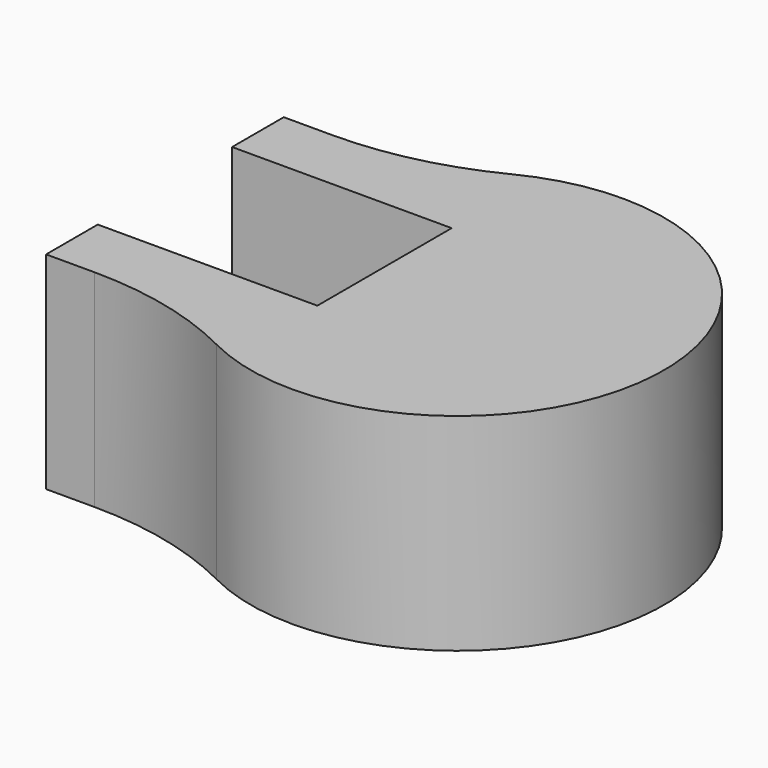
from build123d import *

# Parameters (mm, degrees)
F1_DEPTH = 8
F2_R     = 13


with BuildPart() as f1:
    # F0 (on Top) → F1 (new body)
    with BuildSketch(Plane.XY):
        with BuildLine():
            Line((-11, 0), (-5.240036, 0))
            ThreePointArc((-5.240036, 0), (8.322113, 5.75), (-5.240036, 11.5))
            Line((-5.240036, 11.5), (-11, 11.5))
            Line((-11, 11.5), (-11, 9))
            Line((-11, 9), (-2.5, 9))
            Line((-2.5, 9), (-2.5, 2.5))
            Line((-2.5, 2.5), (-11, 2.5))
            Line((-11, 2.5), (-11, 0))
        make_face()
    extrude(amount=F1_DEPTH)

    # F2
    f2_edges = [f1.edges().sort_by_distance(p)[0] for p in [
        (-5.240036, 0, 4),
        (-5.240036, 11.5, 4),
    ]]
    fillet(f2_edges, radius=F2_R)


solid = f1.part
